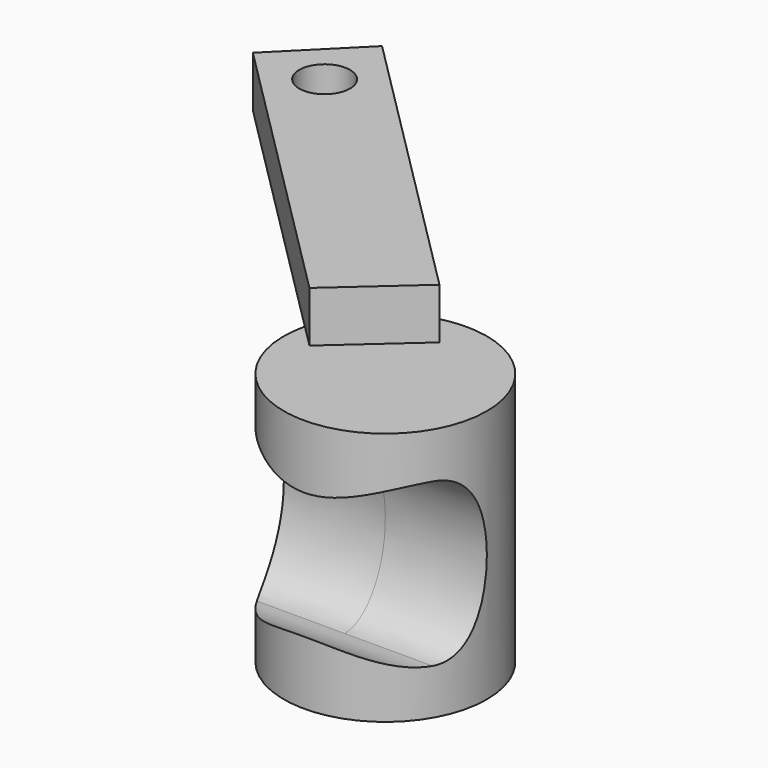
from build123d import *

# Parameters (mm, degrees)
F0_R     = 10
F1_DEPTH = 25
F3_DEPTH = 12.5
F5_R     = 2.5
F6_DEPTH = 5


with BuildPart() as f1:
    # F0 (on Top) → F1 (new body)
    with BuildSketch(Plane.XY):
        Circle(F0_R)
    extrude(amount=F1_DEPTH)

    # F2 (on Right) → F3 (cut, symmetric)
    with BuildSketch(Plane.YZ):
        with BuildLine():
            add(Edge.make_bspline(
                [(-5, 4.5), (0, 4.5), (0, 12.5), (0, 20.5), (-5, 20.5)],
                knots=[3.141593, 3.141593, 3.141593, 4.712389, 4.712389, 6.283185, 6.283185, 6.283185], degree=2, weights=[1, 0.707107, 1, 0.707107, 1]))
            add(Edge.make_bspline(
                [(-5, 20.5), (-10, 20.5), (-10, 12.5), (-10, 4.5), (-5, 4.5)],
                knots=[0, 0, 0, 1.570796, 1.570796, 3.141593, 3.141593, 3.141593], degree=2, weights=[1, 0.707107, 1, 0.707107, 1]))
        make_face()
        with BuildLine():
            add(Edge.make_bspline(
                [(-5, 20.5), (-10, 20.5), (-10, 12.5), (-10, 4.5), (-5, 4.5)],
                knots=[0, 0, 0, 1.570796, 1.570796, 3.141593, 3.141593, 3.141593], degree=2, weights=[1, 0.707107, 1, 0.707107, 1]))
            ThreePointArc((-5, 20.5), (-13, 12.5), (-5, 4.5))
        make_face()
    extrude(amount=F3_DEPTH, both=True, mode=Mode.SUBTRACT)

    # F5 (on face) → F6 (join)
    with BuildSketch(Plane.XY.offset(25)):
        Polygon((-7.476686, 0), (0, 6.66545), (-28.284271, 34.949721), (-35.355339, 27.878653), align=None)
        with Locations((-28.284271, 27.878653)):
            Circle(F5_R, mode=Mode.SUBTRACT)
    extrude(amount=F6_DEPTH)


solid = f1.part
